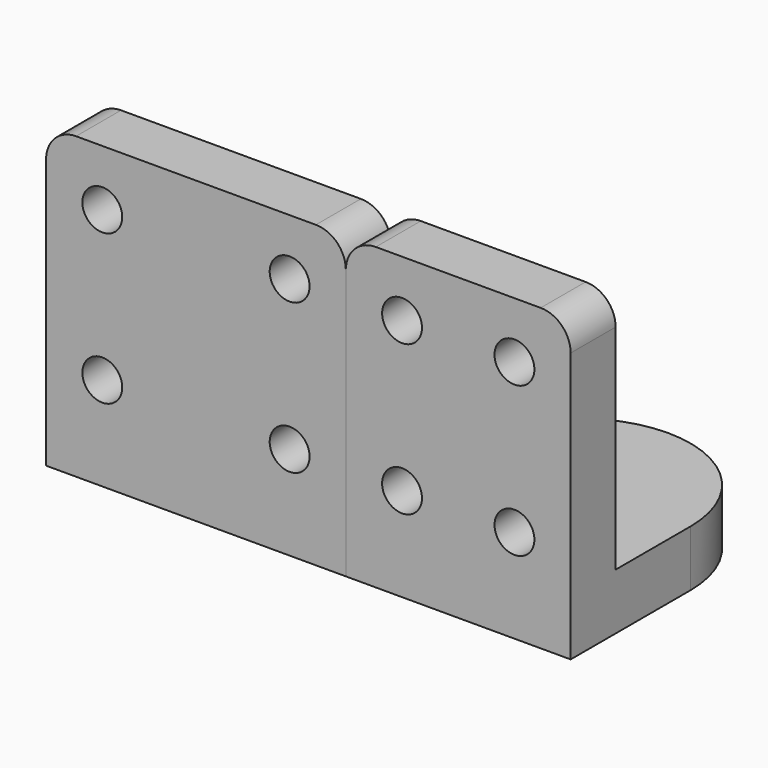
from build123d import *

# Parameters (mm, degrees)
F1_DEPTH = 38.1
F2_DEPTH = 50.8
F3_R     = 6.35
F4_R     = 6.35
F5_DEPTH = 25.4
F7_D     = 6.7564
F7_2_D   = 6.7564
F8_R     = 5.08
F8_2_R   = 5.08


with BuildPart() as f1:
    # F0 (on Right) → F1 (new body)
    with BuildSketch(Plane.YZ):
        Polygon((9.525, 50.8), (0, 50.8), (0, 0), (50.8, 0), (50.8, 9.525), (9.525, 9.525), align=None)
    extrude(amount=F1_DEPTH)


with BuildPart() as f2:
    # F0 (on Right) → F2 (new body)
    with BuildSketch(Plane.YZ):
        Polygon((9.525, 50.8), (0, 50.8), (0, 0), (50.8, 0), (50.8, 9.525), (9.525, 9.525), align=None)
    extrude(amount=-F2_DEPTH)


with BuildPart() as f5_tool:
    # F3 (on face) + F4 (on face) → F5 (new body)
    with BuildSketch(Plane(origin=(0, 0, 0), x_dir=(1, 0, 0), z_dir=(0, 0, -1))):
        with Locations((19.05, -22.225)):
            Circle(F3_R)
        with BuildLine():
            Line((38.1, -50.8), (38.1, -25.4))
            ThreePointArc((38.1, -25.4), (19.05, -44.45), (0, -25.4))
            Line((0, -25.4), (0, -50.8))
            Line((0, -50.8), (38.1, -50.8))
        make_face()
    with BuildSketch(Plane(origin=(0, 0, 0), x_dir=(1, 0, 0), z_dir=(0, 0, -1))):
        with Locations((-25.4, -19.05)):
            Circle(F4_R)
        with BuildLine():
            Line((0, -50.8), (0, -22.225))
            ThreePointArc((0, -22.225), (-25.4, -47.625), (-50.8, -22.225))
            Line((-50.8, -22.225), (-50.8, -50.8))
            Line((-50.8, -50.8), (0, -50.8))
        make_face()
    extrude(amount=-F5_DEPTH)


with BuildPart() as f1_1:
    add(f1.part)

    # F5: cut by f5_tool
    add(f5_tool.part, mode=Mode.SUBTRACT)

    # F7 (through all)
    with Locations(Plane(origin=(0, 9.525, 0), x_dir=(-1, 0, 0), z_dir=(0, 1, 0))):
        with Locations((-28.575, 41.275), (-9.525, 41.275), (-9.525, 15.875), (-28.575, 15.875), (9.525, 41.275), (9.525, 15.875), (41.275, 15.875), (41.275, 41.275)):
            Hole(F7_D / 2)

    # F8
    f8_edges = [f1_1.edges().sort_by_distance(p)[0] for p in [
        (38.1, 4.7625, 50.8),
        (0, 4.7625, 50.8),
    ]]
    fillet(f8_edges, radius=F8_R)


with BuildPart() as f2_1:
    add(f2.part)

    # F5: cut by f5_tool
    add(f5_tool.part, mode=Mode.SUBTRACT)

    # F7#2 (through all)
    with Locations(Plane(origin=(0, 9.525, 0), x_dir=(-1, 0, 0), z_dir=(0, 1, 0))):
        with Locations((-28.575, 41.275), (-9.525, 41.275), (-9.525, 15.875), (-28.575, 15.875), (9.525, 41.275), (9.525, 15.875), (41.275, 15.875), (41.275, 41.275)):
            Hole(F7_2_D / 2)

    # F8#2
    f8_2_edges = [f2_1.edges().sort_by_distance(p)[0] for p in [
        (0, 4.7625, 50.8),
        (-50.8, 4.7625, 50.8),
    ]]
    fillet(f8_2_edges, radius=F8_2_R)


solid = Compound([f1_1.part, f2_1.part])
